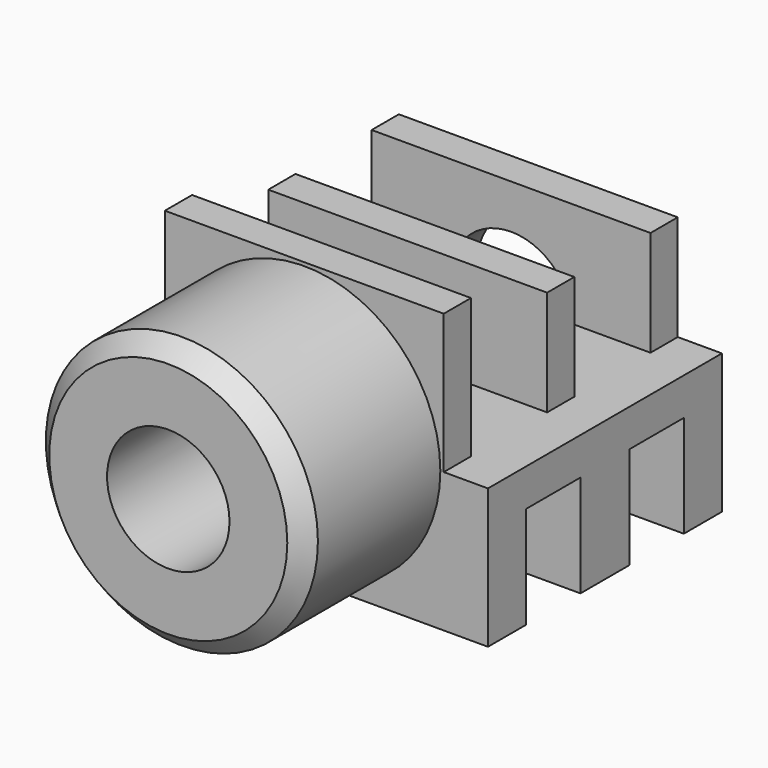
from build123d import *

# Parameters (mm, degrees)
SKETCH_W               = 10.8
SKETCH_H               = 8.2
PAD_DEPTH              = 8.6
SKETCH001_W            = 3
SKETCH001_H            = 2
POCKET_DEPTH           = 10.801
LINEARPATTERN_COUNT    = 2
LINEARPATTERN_PITCH    = 3.8
POCKET001_DEPTH        = 8.601
SKETCH003_W            = 4.1
SKETCH003_H            = 2.8
POCKET002_DEPTH        = 9.501
LINEARPATTERN001_COUNT = 2
LINEARPATTERN001_PITCH = 3.8
SKETCH004_W            = 1
SKETCH004_H            = 7.6
POCKET003_DEPTH        = 9.501
SKETCH005_R            = 1.8
POCKET004_DEPTH        = 8.601
SKETCH006_R            = 4
PAD001_DEPTH           = 5
SKETCH007_R            = 1.8
POCKET005_DEPTH        = 5
CHAMFER_SIZE           = 0.5


with BuildPart() as part:
    # Sketch → Pad (new body)
    with BuildSketch(Plane.XZ):
        Rectangle(SKETCH_W, SKETCH_H)
    extrude(amount=-PAD_DEPTH)

    # Sketch001 (on Face2 of Pad) → Pocket (cut, through all)
    with BuildSketch(Plane(origin=(5.4, 0, 0), x_dir=(0, 0, 1), z_dir=(1, 0, 0))):
        with Locations((-2.6, -2.4)):
            Rectangle(SKETCH001_W, SKETCH001_H)
    pocket = extrude(amount=-POCKET_DEPTH, mode=Mode.SUBTRACT)

    # LinearPattern: Pocket ×2
    with Locations(*[(0, i * LINEARPATTERN_PITCH, 0) for i in range(1, LINEARPATTERN_COUNT)]):
        add(pocket, mode=Mode.SUBTRACT)

    # Sketch002 (on Face4 of LinearPattern) → Pocket001 (cut, through all)
    with BuildSketch(Plane.XZ):
        Polygon((-5.4, 0), (-4.1, 0), (-4.1, 4.1), (4.1, 4.1), (4.1, 0), (5.4, 0), (5.4, 5), (-5.4, 5), align=None)
    extrude(amount=-POCKET001_DEPTH, mode=Mode.SUBTRACT)

    # Sketch003 (on Face3 of Pocket001) → Pocket002 (cut, through all)
    with BuildSketch(Plane(origin=(4.1, 0, 0), x_dir=(0, 0, 1), z_dir=(1, 0, 0))):
        with Locations((2.05, -2.4)):
            Rectangle(SKETCH003_W, SKETCH003_H)
    pocket002 = extrude(amount=-POCKET002_DEPTH, mode=Mode.SUBTRACT)

    # LinearPattern001: Pocket002 ×2
    with Locations(*[(0, i * LINEARPATTERN001_PITCH, 0) for i in range(1, LINEARPATTERN001_COUNT)]):
        add(pocket002, mode=Mode.SUBTRACT)

    # Sketch004 (on Face25 of LinearPattern001) → Pocket003 (cut, through all)
    with BuildSketch(Plane(origin=(4.1, 0, 0), x_dir=(0, 0, 1), z_dir=(1, 0, 0))):
        with Locations((3.6, -4.8)):
            Rectangle(SKETCH004_W, SKETCH004_H)
    extrude(amount=-POCKET003_DEPTH, mode=Mode.SUBTRACT)

    # Sketch005 (on Face2 of Pocket003) → Pocket004 (cut, through all)
    with BuildSketch(Plane.XZ):
        Circle(SKETCH005_R)
    extrude(amount=-POCKET004_DEPTH, mode=Mode.SUBTRACT)

    # Sketch006 (on Face2 of Pocket004) → Pad001 (join)
    with BuildSketch(Plane.XZ):
        Circle(SKETCH006_R)
    extrude(amount=PAD001_DEPTH)

    # Sketch007 (on Face32 of Pad001) → Pocket005 (cut)
    with BuildSketch(Plane.XZ.offset(5)):
        Circle(SKETCH007_R)
    extrude(amount=-POCKET005_DEPTH, mode=Mode.SUBTRACT)

    # Chamfer
    chamfer_edges = [part.edges().sort_by_distance(p)[0] for p in [
        (-4, -5, 0),
    ]]
    chamfer(chamfer_edges, length=CHAMFER_SIZE)


solid = part.part
